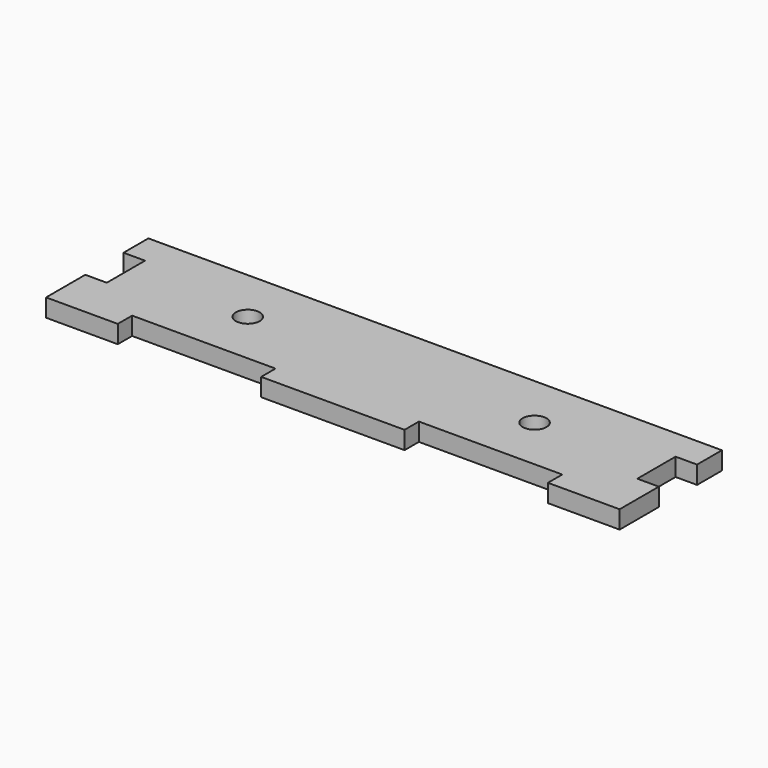
from build123d import *

# Parameters (mm, degrees)
F1_DEPTH = 19.05
F2_W     = 152.4
F2_H     = 19.05
F3_DEPTH = 19.051
F4_R     = 12.7
F5_DEPTH = 19.051


with BuildPart() as f1:
    # F0 (on Top) → F1 (new body)
    with BuildSketch(Plane.XY):
        Polygon((341.488764, -53.718452), (318.628764, -53.718452), (318.628764, -2.918452), (341.488764, -2.918452), (341.488764, 30.101548), (-268.111236, 30.101548), (-268.111236, -2.918452), (-245.251236, -2.918452), (-245.251236, -53.718452), (-268.111236, -53.718452), (-268.111236, -86.738452), (-268.111236, -105.788452), (341.488764, -105.788452), (341.488764, -86.738452), align=None)
    extrude(amount=F1_DEPTH)

    # F2 (on face) → F3 (cut, through all)
    with BuildSketch(Plane.XY.offset(19.05)):
        with Locations((-115.711236, -96.263452)):
            Rectangle(F2_W, F2_H)
        with Locations((189.088764, -96.263452)):
            Rectangle(F2_W, F2_H)
    extrude(amount=-F3_DEPTH, mode=Mode.SUBTRACT)

    # F4 (on face) → F5 (cut, through all)
    with BuildSketch(Plane.XY.offset(19.05)):
        with Locations((189.088764, -28.318452)):
            Circle(F4_R)
        with Locations((-115.711236, -28.318452)):
            Circle(F4_R)
    extrude(amount=-F5_DEPTH, mode=Mode.SUBTRACT)


solid = f1.part
